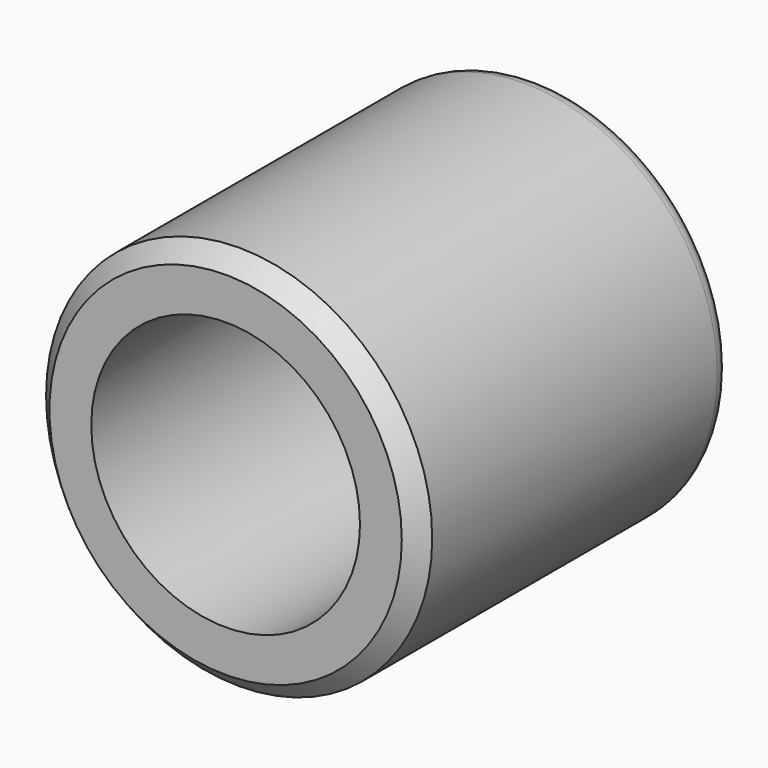
from build123d import *

# Parameters (mm, degrees)
F0_R     = 57.09467
F0_R_2   = 39.73405
F1_DEPTH = 115.348577
F2_SIZE  = 5
F3_R     = 5
F4_R     = 5


with BuildPart() as f1:
    # F0 (on Front) → F1 (new body)
    with BuildSketch(Plane.XZ):
        Circle(F0_R)
        Circle(F0_R_2, mode=Mode.SUBTRACT)
    extrude(amount=F1_DEPTH)

    # F2
    f2_edges = [f1.edges().sort_by_distance(p)[0] for p in [
        (-57.09467, -115.348577, 0),
    ]]
    chamfer(f2_edges, length=F2_SIZE)

    # F3
    f3_edges = [f1.edges().sort_by_distance(p)[0] for p in [
        (-57.09467, 0, 0),
    ]]
    fillet(f3_edges, radius=F3_R)

    # F4
    f4_edges = [f1.edges().sort_by_distance(p)[0] for p in [
        (-39.73405, 0, 0),
    ]]
    fillet(f4_edges, radius=F4_R)


solid = f1.part
